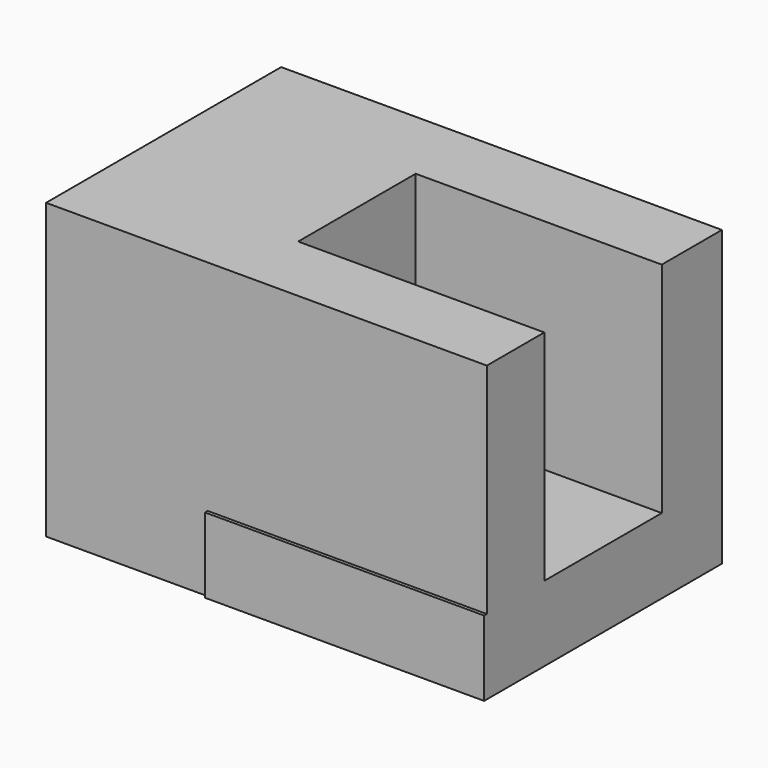
from build123d import *

# Parameters (mm, degrees)
F0_W     = 38.1
F0_H     = 25.4
F1_DEPTH = 12.7
F2_W     = 21.2713289022
F2_H     = 12.695313897
F3_DEPTH = 25.4
F4_W     = 25.6905510694
F4_H     = 6.4952769317
F5_DEPTH = 24.13


with BuildPart() as f1:
    # F0 (on Front) → F1 (new body, symmetric)
    with BuildSketch(Plane.XZ):
        with Locations((19.05, 12.7)):
            Rectangle(F0_W, F0_H)
    extrude(amount=F1_DEPTH, both=True)

    # F2 (on face) → F3 (cut)
    with BuildSketch(Plane.XY.offset(25.4)):
        with Locations((27.4643355489, -0.1476199832)):
            Rectangle(F2_W, F2_H)
    extrude(amount=-F3_DEPTH, mode=Mode.SUBTRACT)

    # F4 (on face) → F5 (join)
    with BuildSketch(Plane.YZ.offset(38.1)):
        with Locations((-0.1452755347, 3.2476384658)):
            Rectangle(F4_W, F4_H)
    extrude(amount=-F5_DEPTH)


solid = f1.part
